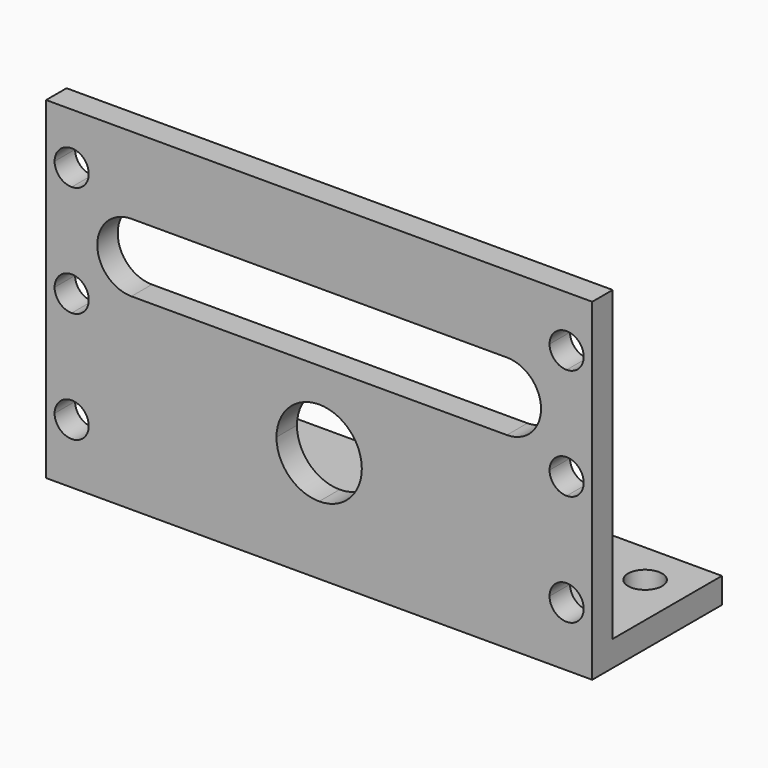
from build123d import *

# Parameters (mm, degrees)
F0_W     = 1625.6
F0_H     = 482.6
F1_DEPTH = 76.2
F2_W     = 1625.6
F2_H     = 76.2
F3_DEPTH = 914.4
F5_DEPTH = 612.14
F7_DEPTH = 281.94
F8_R     = 50.8
F9_DEPTH = 215.9


with BuildPart() as f1:
    # F0 (on Top) → F1 (new body)
    with BuildSketch(Plane.XY):
        Rectangle(F0_W, F0_H)
    extrude(amount=F1_DEPTH)

    # F2 (on face) → F3 (join)
    with BuildSketch(Plane.XY.offset(76.2)):
        with Locations((0, -203.2)):
            Rectangle(F2_W, F2_H)
    extrude(amount=F3_DEPTH)

    # F4 (on face) → F5 (cut)
    with BuildSketch(Plane(origin=(0, -165.1, 0), x_dir=(-1, 0, 0), z_dir=(0, 1, 0))):
        with BuildLine():
            ThreePointArc((-127, 330.2), (-89.802561, 240.397439), (0, 203.2))
            Line((0, 203.2), (0, 330.2))
            Line((0, 330.2), (-127, 330.2))
        make_face()
        with BuildLine():
            Line((0, 330.2), (0, 203.2))
            ThreePointArc((0, 203.2), (89.802561, 240.397439), (127, 330.2))
            ThreePointArc((127, 330.2), (0, 457.2), (-127, 330.2))
            Line((-127, 330.2), (0, 330.2))
        make_face()
        with BuildLine():
            Line((558.8, 762), (-558.8, 762))
            ThreePointArc((-558.8, 762), (-660.4, 660.4), (-558.8, 558.8))
            Line((-558.8, 558.8), (558.8, 558.8))
            ThreePointArc((558.8, 558.8), (660.4, 660.4), (558.8, 762))
        make_face()
    extrude(amount=-F5_DEPTH, mode=Mode.SUBTRACT)

    # F6 (on face) → F7 (cut)
    with BuildSketch(Plane(origin=(0, -165.1, 0), x_dir=(-1, 0, 0), z_dir=(0, 1, 0))):
        with BuildLine():
            ThreePointArc((736.6, 787.4), (772.521024, 802.278976), (787.4, 838.2))
            Line((787.4, 838.2), (736.6, 838.2))
            Line((736.6, 838.2), (736.6, 787.4))
        make_face()
        with BuildLine():
            Line((736.6, 838.2), (787.4, 838.2))
            ThreePointArc((787.4, 838.2), (700.678976, 874.121024), (736.6, 787.4))
            Line((736.6, 787.4), (736.6, 838.2))
        make_face()
        with BuildLine():
            ThreePointArc((787.4, 177.8), (772.521024, 213.721024), (736.6, 228.6))
            ThreePointArc((736.6, 228.6), (700.678976, 141.878976), (787.4, 177.8))
        make_face()
        with BuildLine():
            ThreePointArc((787.4, 508), (772.521024, 543.921024), (736.6, 558.8))
            Line((736.6, 558.8), (736.6, 508))
            Line((736.6, 508), (736.6, 457.2))
            ThreePointArc((736.6, 457.2), (772.521024, 472.078976), (787.4, 508))
        make_face()
        with BuildLine():
            Line((736.6, 508), (736.6, 558.8))
            ThreePointArc((736.6, 558.8), (685.8, 508), (736.6, 457.2))
            Line((736.6, 457.2), (736.6, 508))
        make_face()
        with BuildLine():
            ThreePointArc((-685.8, 838.2), (-700.678976, 874.121024), (-736.6, 889))
            Line((-736.6, 889), (-736.6, 838.2))
            Line((-736.6, 838.2), (-736.6, 787.4))
            ThreePointArc((-736.6, 787.4), (-700.678976, 802.278976), (-685.8, 838.2))
        make_face()
        with BuildLine():
            ThreePointArc((-685.8, 177.8), (-700.678976, 213.721024), (-736.6, 228.6))
            ThreePointArc((-736.6, 228.6), (-772.521024, 141.878976), (-685.8, 177.8))
        make_face()
        with BuildLine():
            ThreePointArc((-685.8, 508), (-700.678976, 543.921024), (-736.6, 558.8))
            Line((-736.6, 558.8), (-736.6, 508))
            Line((-736.6, 508), (-736.6, 457.2))
            ThreePointArc((-736.6, 457.2), (-700.678976, 472.078976), (-685.8, 508))
        make_face()
        with BuildLine():
            Line((-736.6, 508), (-736.6, 558.8))
            ThreePointArc((-736.6, 558.8), (-787.4, 508), (-736.6, 457.2))
            Line((-736.6, 457.2), (-736.6, 508))
        make_face()
        with BuildLine():
            Line((-736.6, 838.2), (-736.6, 889))
            ThreePointArc((-736.6, 889), (-787.4, 838.2), (-736.6, 787.4))
            Line((-736.6, 787.4), (-736.6, 838.2))
        make_face()
    extrude(amount=-F7_DEPTH, mode=Mode.SUBTRACT)

    # F8 (on face) → F9 (cut)
    with BuildSketch(Plane.XY.offset(76.2)):
        with Locations((-685.8, 114.3)):
            Circle(F8_R)
        with Locations((685.8, 114.3)):
            Circle(F8_R)
    extrude(amount=-F9_DEPTH, mode=Mode.SUBTRACT)


solid = f1.part
